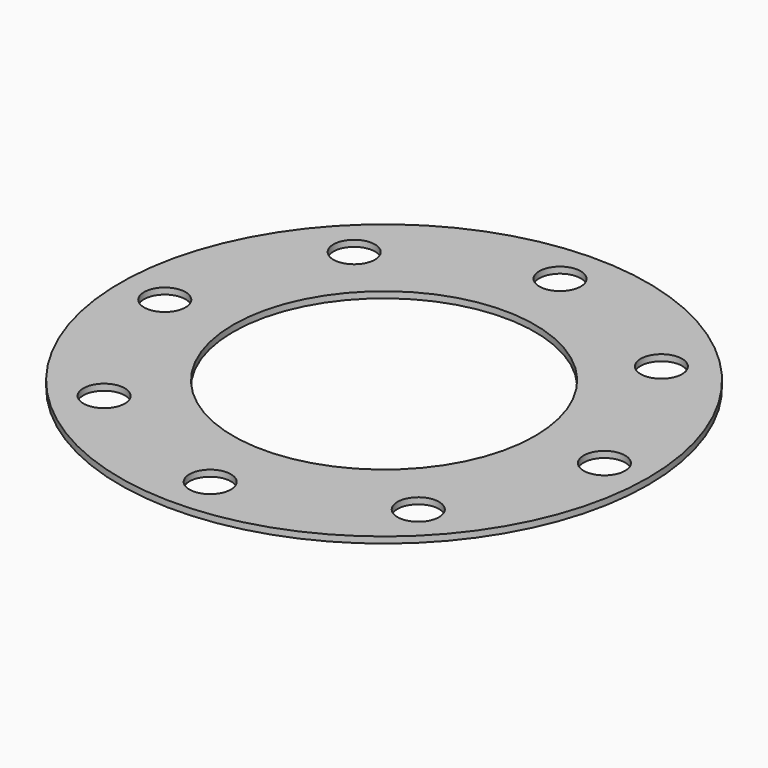
from build123d import *

# Parameters (mm, degrees)
F0_R     = 42
F0_R_2   = 3.3
F0_R_3   = 24
F1_DEPTH = 1


with BuildPart() as f1:
    # F0 (on Top) → F1 (new body)
    with BuildSketch(Plane.XY):
        Circle(F0_R)
        with Locations((-24.559192, -24.990192)):
            Circle(F0_R_2, mode=Mode.SUBTRACT)
        with Locations((-34.837347, -0.0758)):
            Circle(F0_R_2, mode=Mode.SUBTRACT)
        with Locations((0.186277, -34.820955)):
            Circle(F0_R_2, mode=Mode.SUBTRACT)
        with Locations((25.016457, -24.473371)):
            Circle(F0_R_2, mode=Mode.SUBTRACT)
        with Locations((35.283379, -0.281087)):
            Circle(F0_R_2, mode=Mode.SUBTRACT)
        with Locations((-24.48122, 24.652159)):
            Circle(F0_R_2, mode=Mode.SUBTRACT)
        Circle(F0_R_3, mode=Mode.SUBTRACT)
        with Locations((0, 35)):
            Circle(F0_R_2, mode=Mode.SUBTRACT)
        with Locations((24.558635, 24.454905)):
            Circle(F0_R_2, mode=Mode.SUBTRACT)
    extrude(amount=F1_DEPTH)


solid = f1.part
